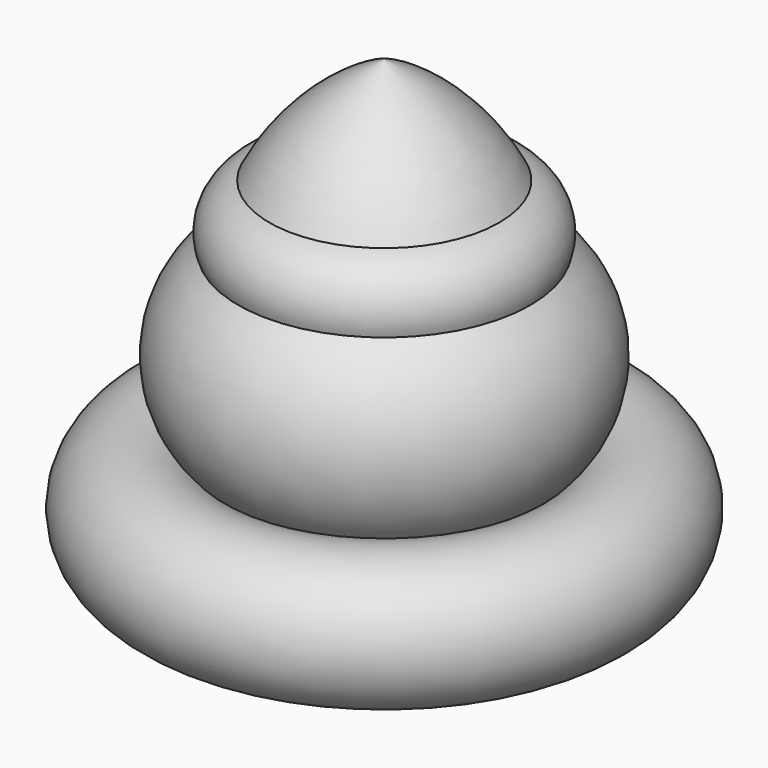
from build123d import *


with BuildPart() as f1:
    # F0 (on Front) → F1 (revolve)
    with BuildSketch(Plane.XZ):
        with BuildLine():
            ThreePointArc((15.962588, 61.28845), (9.270194, 70.070547), (0, 76.068617))
            Line((0, 76.068617), (0, 0))
            ThreePointArc((0, 0), (10.575993, 7.09744), (20.298103, 15.325796))
            ThreePointArc((20.298103, 15.325796), (36.607175, 20.018179), (22.176036, 28.948268))
            ThreePointArc((22.176036, 28.948268), (26.48154, 41.198942), (20.298103, 52.617412))
            ThreePointArc((20.298103, 52.617412), (20.021728, 57.898622), (15.962588, 61.28845))
        make_face()
    revolve(axis=Axis((0, 0, 36.457757), (0, 0, -1)))


solid = f1.part
